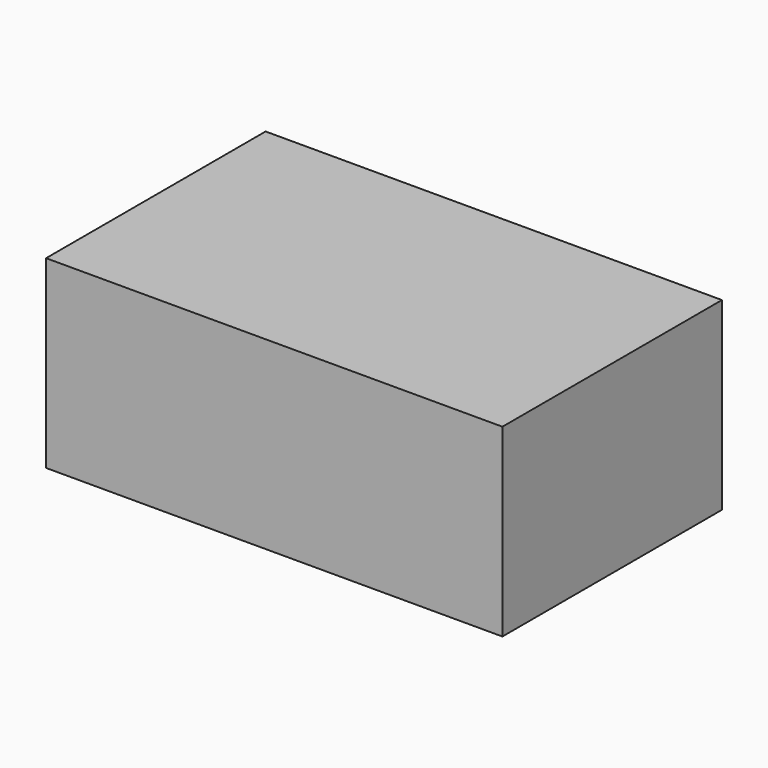
from build123d import *

# Parameters (mm, degrees)
F0_W     = 24.78
F0_H     = 10.03
F1_DEPTH = 14.9


with BuildPart() as f1:
    # F0 (on Front) → F1 (new body)
    with BuildSketch(Plane.XZ):
        with Locations((-12.39, 5.015)):
            Rectangle(F0_W, F0_H)
    extrude(amount=F1_DEPTH)

    # F3 (on offset) → F4 (revolve, cut)
    with BuildSketch(Plane.XZ.offset(5.64)):
        Polygon((-8.7054759357, 7.74), (-8.8912103195, 8.8749020833), (-26.6612103195, 8.8749020833), (-26.011947517, 4.9076791486), align=None)
    revolve(axis=Axis((-17.3587117264, -5.64, 6.3238395743), (-0.9868713768, 0, -0.1615081598)), mode=Mode.SUBTRACT)


solid = f1.part
